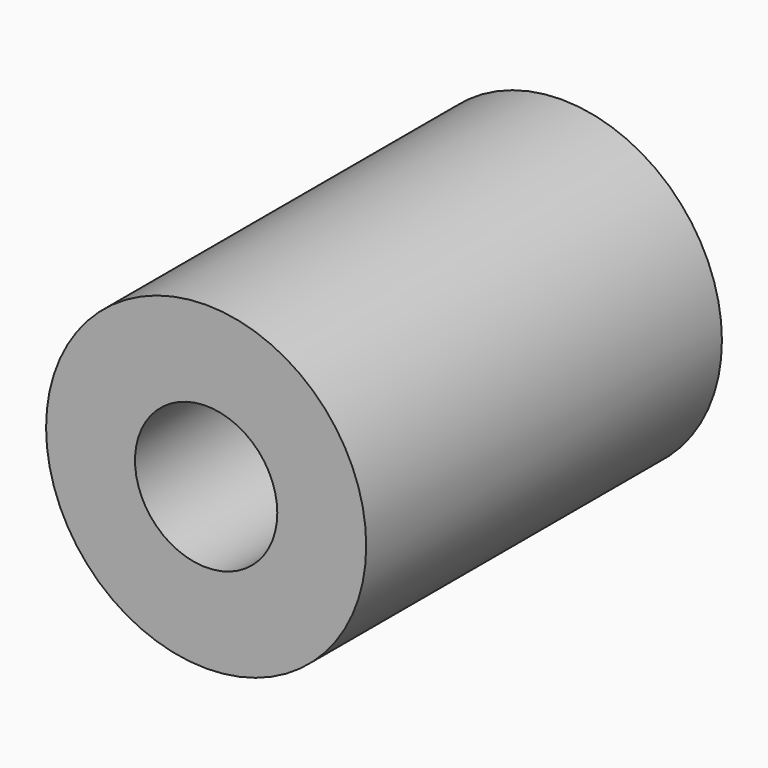
from build123d import *

# Parameters (mm, degrees)
F0_R     = 9
F1_DEPTH = 12.5
F2_R     = 4
F3_DEPTH = 10
F4_R     = 2.5
F5_DEPTH = 10


with BuildPart() as f1:
    # F0 (on Front) → F1 (new body, symmetric)
    with BuildSketch(Plane.XZ):
        Circle(F0_R)
    extrude(amount=F1_DEPTH, both=True)

    # F2 (on face) → F3 (cut)
    with BuildSketch(Plane.XZ.offset(12.5)):
        Circle(F2_R)
    extrude(amount=-F3_DEPTH, mode=Mode.SUBTRACT)

    # F4 (on face) → F5 (cut)
    with BuildSketch(Plane(origin=(0, 12.5, 0), x_dir=(-1, 0, 0), z_dir=(0, 1, 0))):
        Circle(F4_R)
    extrude(amount=-F5_DEPTH, mode=Mode.SUBTRACT)


solid = f1.part
